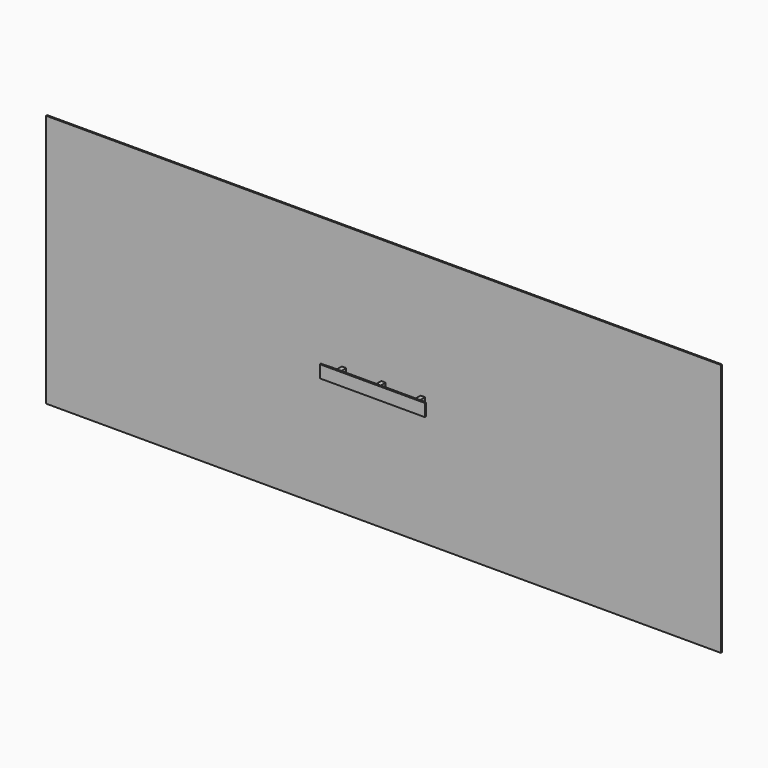
from build123d import *

# Parameters (mm, degrees)
F0_W     = 20.32
F0_H     = 20.32
F1_DEPTH = 63.5
F2_W     = 482.6
F2_H     = 57.15
F3_DEPTH = 6.35
F5_W     = 457.2
F5_H     = 38.1
F5_W_2   = 3
F5_H_2   = 1
F5_W_3   = 1
F5_H_3   = 3
F5_W_4   = 20.32
F5_H_4   = 20.32
F5_W_5   = 147.955
F6_DEPTH = 12.7
F7_R     = 12.7
F8_W     = 3097.7175235748
F8_H     = 1163.6712551117
F9_DEPTH = 6.35


with BuildPart() as f1:
    # F0 (on Front) → F1 (new body)
    with BuildSketch(Plane.XZ):
        Rectangle(F0_W, F0_H)
    extrude(amount=F1_DEPTH)


with BuildPart() as f1b:
    # F0 (on Front) → F1, piece 2 (new body)
    with BuildSketch(Plane.XZ):
        with Locations((180.975, 0)):
            Rectangle(F0_W, F0_H)
    extrude(amount=F1_DEPTH)


with BuildPart() as f1c:
    # F0 (on Front) → F1, piece 3 (new body)
    with BuildSketch(Plane.XZ):
        with Locations((-180.975, 0)):
            Rectangle(F0_W, F0_H)
    extrude(amount=F1_DEPTH)


with BuildPart() as f3:
    # F2 (on face) → F3 (new body)
    with BuildSketch(Plane.XZ.offset(63.5)):
        Rectangle(F2_W, F2_H)
    extrude(amount=F3_DEPTH)


with BuildPart() as f6:
    # F5 (on offset) → F6 (new body)
    with BuildSketch(Plane(origin=(0, -60.5, 0), x_dir=(-1, 0, 0), z_dir=(0, 1, 0))):
        Rectangle(F5_W, F5_H)
        with Locations((-215.9, -16.01)):
            Rectangle(F5_W_2, F5_H_2, mode=Mode.SUBTRACT)
        with Locations((-161.925, -16.01)):
            Rectangle(F5_W_2, F5_H_2, mode=Mode.SUBTRACT)
        with Locations((-107.95, -16.01)):
            Rectangle(F5_W_2, F5_H_2, mode=Mode.SUBTRACT)
        with Locations((-53.975, -16.01)):
            Rectangle(F5_W_2, F5_H_2, mode=Mode.SUBTRACT)
        with Locations((0, -16.01)):
            Rectangle(F5_W_2, F5_H_2, mode=Mode.SUBTRACT)
        with Locations((53.975, -16.01)):
            Rectangle(F5_W_2, F5_H_2, mode=Mode.SUBTRACT)
        with Locations((107.95, -16.01)):
            Rectangle(F5_W_2, F5_H_2, mode=Mode.SUBTRACT)
        with Locations((161.925, -16.01)):
            Rectangle(F5_W_2, F5_H_2, mode=Mode.SUBTRACT)
        with Locations((215.9, -16.01)):
            Rectangle(F5_W_2, F5_H_2, mode=Mode.SUBTRACT)
        with Locations((-226.06, 0)):
            Rectangle(F5_W_3, F5_H_3, mode=Mode.SUBTRACT)
        with Locations((-180.975, 0)):
            Rectangle(F5_W_4, F5_H_4, mode=Mode.SUBTRACT)
        with Locations((-90.4875, 0)):
            Rectangle(F5_W_5, F5_H_4, mode=Mode.SUBTRACT)
        with Locations((-215.9, 16.01)):
            Rectangle(F5_W_2, F5_H_2, mode=Mode.SUBTRACT)
        with Locations((-161.925, 16.01)):
            Rectangle(F5_W_2, F5_H_2, mode=Mode.SUBTRACT)
        with Locations((-107.95, 16.01)):
            Rectangle(F5_W_2, F5_H_2, mode=Mode.SUBTRACT)
        with Locations((-53.975, 16.01)):
            Rectangle(F5_W_2, F5_H_2, mode=Mode.SUBTRACT)
        Rectangle(F5_W_4, F5_H_4, mode=Mode.SUBTRACT)
        with Locations((90.4875, 0)):
            Rectangle(F5_W_5, F5_H_4, mode=Mode.SUBTRACT)
        with Locations((180.975, 0)):
            Rectangle(F5_W_4, F5_H_4, mode=Mode.SUBTRACT)
        with Locations((226.06, 0)):
            Rectangle(F5_W_3, F5_H_3, mode=Mode.SUBTRACT)
        with Locations((0, 16.01)):
            Rectangle(F5_W_2, F5_H_2, mode=Mode.SUBTRACT)
        with Locations((53.975, 16.01)):
            Rectangle(F5_W_2, F5_H_2, mode=Mode.SUBTRACT)
        with Locations((107.95, 16.01)):
            Rectangle(F5_W_2, F5_H_2, mode=Mode.SUBTRACT)
        with Locations((161.925, 16.01)):
            Rectangle(F5_W_2, F5_H_2, mode=Mode.SUBTRACT)
        with Locations((215.9, 16.01)):
            Rectangle(F5_W_2, F5_H_2, mode=Mode.SUBTRACT)
    extrude(amount=F6_DEPTH)

    # F7
    f7_edges = [f6.edges().sort_by_distance(p)[0] for p in [
        (228.6, -54.15, 19.05),
        (228.6, -54.15, -19.05),
        (-228.6, -54.15, 19.05),
        (-228.6, -54.15, -19.05),
    ]]
    fillet(f7_edges, radius=F7_R)


with BuildPart() as f9:
    # F8 (on Front) → F9 (new body)
    with BuildSketch(Plane.XZ):
        Rectangle(F8_W, F8_H)
    extrude(amount=F9_DEPTH)


solid = Compound([f1.part, f1b.part, f1c.part, f3.part, f6.part, f9.part])
